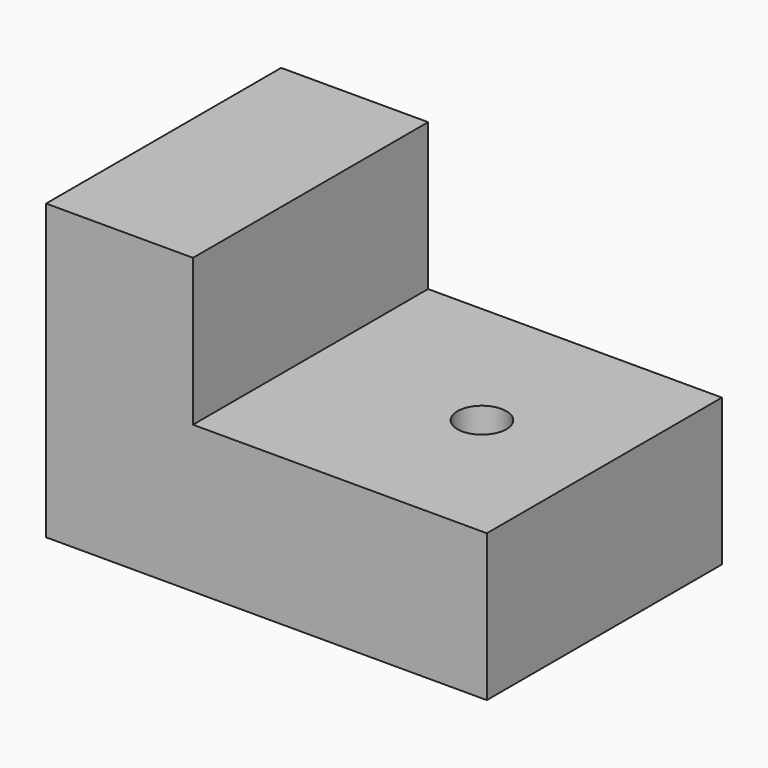
from build123d import *

# Parameters (mm, degrees)
F0_W     = 9
F0_H     = 6
F1_DEPTH = 6
F2_W     = 6
F2_H     = 6
F3_DEPTH = 3
F4_R     = 0.5
F5_DEPTH = 25


with BuildPart() as f1:
    # F0 (on Front) → F1 (new body)
    with BuildSketch(Plane.XZ):
        with Locations((4.5, 3)):
            Rectangle(F0_W, F0_H)
    extrude(amount=F1_DEPTH)

    # F2 (on face) → F3 (cut)
    with BuildSketch(Plane.XY.offset(6)):
        with Locations((6, -3)):
            Rectangle(F2_W, F2_H)
    extrude(amount=-F3_DEPTH, mode=Mode.SUBTRACT)

    # F4 (on face) → F5 (cut)
    with BuildSketch(Plane.XY.offset(3)):
        with Locations((6.5, -3)):
            Circle(F4_R)
    extrude(amount=-F5_DEPTH, mode=Mode.SUBTRACT)


solid = f1.part
